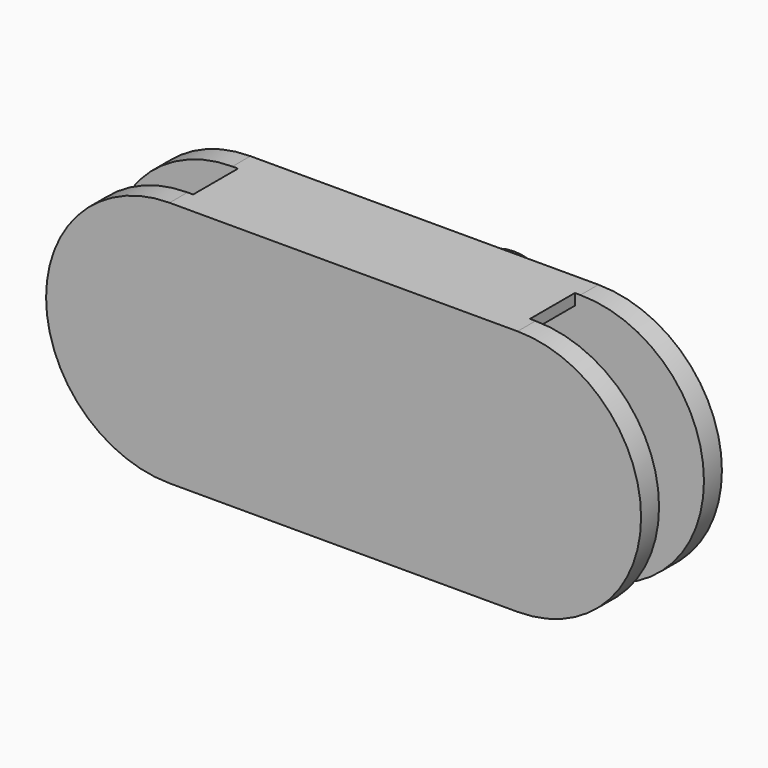
from build123d import *

# Parameters (mm, degrees)
SKETCH_R      = 4.5
SKETCH_R_2    = 2.5
PAD_DEPTH     = 10
SKETCH001_R   = 2.5
PAD001_DEPTH  = 2
SKETCH002_R   = 4.5
SKETCH002_R_2 = 2.5
SKETCH002_W   = 30
SKETCH002_H   = 1
PAD002_DEPTH  = 5
PAD003_DEPTH  = 2


with BuildPart() as part:
    # Sketch → Pad (new body)
    with BuildSketch(Plane.XZ):
        Circle(SKETCH_R)
        Circle(SKETCH_R_2, mode=Mode.SUBTRACT)
    extrude(amount=PAD_DEPTH)

    # Sketch001 → Pad001 (new body)
    with BuildSketch(Plane.XZ.offset(10)):
        with BuildLine():
            Line((15.499965, -11), (-15.499965, -11))
            ThreePointArc((-15.499965, 11), (-26.5, 0), (-15.499965, -11))
            Line((-15.499965, 11), (15.499965, 11))
            ThreePointArc((15.499965, -11), (26.5, 0), (15.499965, 11))
        make_face()
        Circle(SKETCH001_R, mode=Mode.SUBTRACT)
    extrude(amount=PAD001_DEPTH)

    # Sketch002 → Pad002 (new body)
    with BuildSketch(Plane.XZ.offset(12)):
        Circle(SKETCH002_R)
        Circle(SKETCH002_R_2, mode=Mode.SUBTRACT)
        with Locations((0, 10.5)):
            Rectangle(SKETCH002_W, SKETCH002_H)
        with Locations((0, -10.5)):
            Rectangle(SKETCH002_W, SKETCH002_H)
    extrude(amount=PAD002_DEPTH)

    # Sketch003 → Pad003 (new body)
    with BuildSketch(Plane.XZ.offset(17)):
        with BuildLine():
            Line((-15.5, 11), (15.5, 11))
            ThreePointArc((15.499965, -11), (26.499965, -1.7e-05), (15.5, 11))
            Line((15.499965, -11), (-15.499963, -11))
            ThreePointArc((-15.5, 11), (-26.499965, -1.8e-05), (-15.499963, -11))
        make_face()
    extrude(amount=PAD003_DEPTH)


solid = part.part
